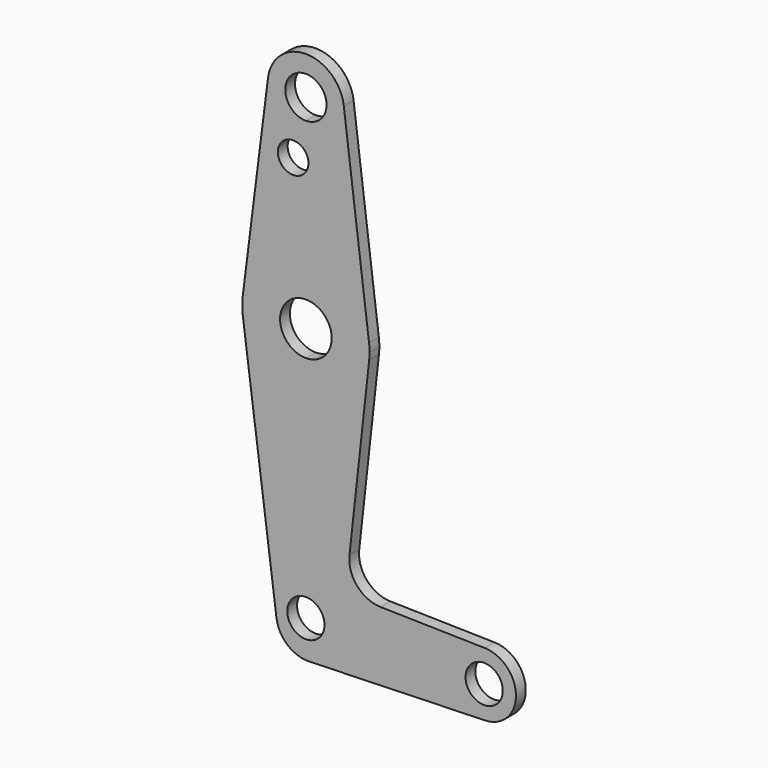
from build123d import *

# Parameters (mm, degrees)
F1_DEPTH = 3.048


with BuildPart() as f1:
    # F0 (on Front) → F1 (new body)
    with BuildSketch(Plane.XZ):
        with BuildLine():
            ThreePointArc((-9.4502929642, 115.490625), (-7.14375, 107.9998046905), (0, 104.775))
            ThreePointArc((0, 104.775), (6.7351920908, 107.5648079092), (9.525, 114.3))
            ThreePointArc((9.525, 114.3), (9.5063048942, 114.896483242), (9.4502929642, 115.490625))
            ThreePointArc((9.4502929642, 115.490625), (0, 123.825), (-9.4502929642, 115.490625))
        make_face()
        with BuildLine():
            ThreePointArc((5.1473989497, 114.3), (3.6397607028, 110.6602392972), (0, 109.1526010503))
            ThreePointArc((0, 109.1526010503), (-3.6397607028, 117.9397607028), (5.1473989497, 114.3))
        make_face(mode=Mode.SUBTRACT)
        with BuildLine():
            ThreePointArc((9.525, 114.3), (6.7351920908, 107.5648079092), (0, 104.775))
            Line((0, 104.775), (0, 102.1312567419))
            ThreePointArc((0, 102.1312567419), (0.4727972806, 101.1250522628), (0.635, 100.0252))
            ThreePointArc((0.635, 100.0252), (0.4727972806, 98.9253477372), (0, 97.9191432581))
            Line((0, 97.9191432581), (0, 79.375))
            ThreePointArc((0, 79.375), (10.5003255158, 75.40625), (15.7504882737, 65.484375))
            Line((15.7504882737, 65.484375), (9.4502929642, 115.490625))
            ThreePointArc((9.4502929642, 115.490625), (9.5063048942, 114.896483242), (9.525, 114.3))
        make_face()
        with BuildLine():
            Line((0, 102.1312567419), (0, 104.775))
            ThreePointArc((0, 104.775), (-7.14375, 107.9998046905), (-9.4502929642, 115.490625))
            Line((-9.4502929642, 115.490625), (-15.7504882737, 65.484375))
            ThreePointArc((-15.7504882737, 65.484375), (-10.5003255158, 75.40625), (0, 79.375))
            Line((0, 79.375), (0, 97.9191432581))
            ThreePointArc((0, 97.9191432581), (-6.985, 100.0252), (0, 102.1312567419))
        make_face()
        with BuildLine():
            ThreePointArc((0, 79.375), (-10.5003255158, 75.40625), (-15.7504882737, 65.484375))
            ThreePointArc((-15.7504882737, 65.484375), (-15.8749354575, 63.4547316886), (-15.7389150973, 61.4258311158))
            ThreePointArc((-15.7389150973, 61.4258311158), (-10.4663315914, 51.5638562333), (0, 47.625))
            Line((0, 47.625), (0, 57.0657531906))
            ThreePointArc((0, 57.0657531906), (-6.4342468094, 63.5), (0, 69.9342468094))
            Line((0, 69.9342468094), (0, 79.375))
        make_face()
        with BuildLine():
            ThreePointArc((15.7504882737, 65.484375), (10.5003255158, 75.40625), (0, 79.375))
            Line((0, 79.375), (0, 69.9342468094))
            ThreePointArc((0, 69.9342468094), (4.5496995508, 68.0496995508), (6.4342468094, 63.5))
            ThreePointArc((6.4342468094, 63.5), (4.5496995508, 58.9503004492), (0, 57.0657531906))
            Line((0, 57.0657531906), (0, 47.625))
            ThreePointArc((0, 47.625), (10.5899458509, 51.6733913621), (15.7786639465, 61.75375))
            ThreePointArc((15.7786639465, 61.75375), (15.8508976899, 62.6255473572), (15.875, 63.5))
            ThreePointArc((15.875, 63.5), (15.8438414904, 64.4941387366), (15.7504882737, 65.484375))
        make_face()
        with BuildLine():
            ThreePointArc((0, 47.625), (-10.4663315914, 51.5638562333), (-15.7389150973, 61.4258311158))
            Line((-15.7389150973, 61.4258311158), (-7.3336929022, -2.3534876791))
            ThreePointArc((-7.3336929022, -2.3534876791), (-4.6020954107, -7.371024327), (0.7890227862, -9.261300353))
            Line((0.7890227862, -9.261300353), (44.5059455788, -7.937302838))
            ThreePointArc((44.5059455788, -7.937302838), (38.85715465, -5.6324050938), (36.5125, 0))
            Line((36.5125, 0), (4.6393582615, 0))
            ThreePointArc((4.6393582615, 0), (-3.2805216871, -3.2805216871), (0, 4.6393582615))
            Line((0, 4.6393582615), (0, 47.625))
        make_face()
        with BuildLine():
            ThreePointArc((15.7786639465, 61.75375), (10.5899458509, 51.6733913621), (0, 47.625))
            Line((0, 47.625), (0, 4.6393582615))
            ThreePointArc((0, 4.6393582615), (3.2805216871, 3.2805216871), (4.6393582615, 0))
            Line((4.6393582615, 0), (36.5125, 0))
            ThreePointArc((36.5125, 0), (38.8978012218, 5.6724769702), (44.6200892857, 7.9356774055))
            Line((44.6200892857, 7.9356774055), (18.5923091973, 8.4935436465))
            ThreePointArc((18.5923091973, 8.4935436465), (12.7834191375, 11.2022395504), (10.8607157214, 17.3164401359))
            Line((10.8607157214, 17.3164401359), (15.7786639465, 61.75375))
        make_face()
        with BuildLine():
            ThreePointArc((36.5125, 0), (38.85715465, -5.6324050938), (44.5059455788, -7.937302838))
            ThreePointArc((44.5059455788, -7.937302838), (50.0824050938, -5.59284535), (52.3875, 0))
            ThreePointArc((52.3875, 0), (50.1224769702, 5.5521987782), (44.6200892857, 7.9356774055))
            ThreePointArc((44.6200892857, 7.9356774055), (38.8978012218, 5.6724769702), (36.5125, 0))
        make_face()
        with BuildLine():
            ThreePointArc((49.088644138, 0), (44.45, -4.638644138), (39.811355862, 0))
            ThreePointArc((39.811355862, 0), (44.45, 4.638644138), (49.088644138, 0))
        make_face(mode=Mode.SUBTRACT)
    extrude(amount=F1_DEPTH)


solid = f1.part
